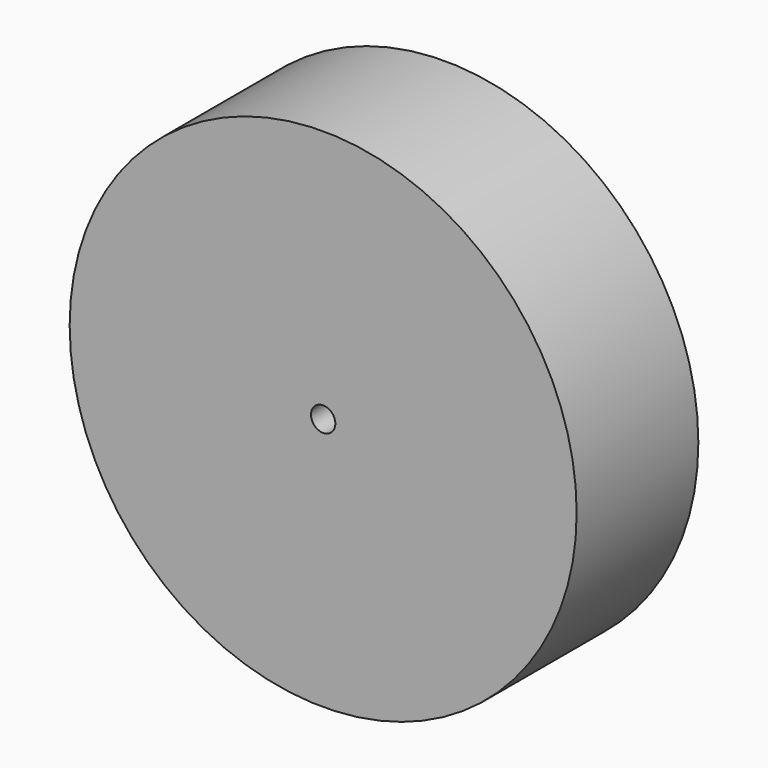
from build123d import *

# Parameters (mm, degrees)
CYLINDER005_R             = 1.2
CYLINDER005_DEPTH         = 32
CYLINDER005_ROLL_ANGLE    = 90
CYLINDER004_R             = 4
CYLINDER004_DEPTH         = 15
CYLINDER004_ROLL_ANGLE    = 90
CYLINDER003_R             = 25
CYLINDER003_DEPTH         = 15
CYLINDER003_ROLL_ANGLE    = 90
THICKNESS001_T            = -3
FUSION001_PLACEMENT_ANGLE = 180


with BuildPart() as wheelshaft:
    # Cylinder005 → Cylinder005 (new body)
    with BuildSketch(Plane.XY):
        Circle(CYLINDER005_R)
    extrude(amount=CYLINDER005_DEPTH)


with BuildPart() as wheelshaft_1:
    # Cylinder005 roll: moved
    add(wheelshaft.part.rotate(Axis((0, 0, 0), (1, 0, 0)), CYLINDER005_ROLL_ANGLE))


with BuildPart() as wheelshaft_2:
    # Cylinder005 placement: moved
    add(wheelshaft_1.part.moved(Location((0, 40, 0))))


with BuildPart() as shaft_holder_b:
    # Cylinder004 → Cylinder004 (new body)
    with BuildSketch(Plane.XY):
        Circle(CYLINDER004_R)
    extrude(amount=CYLINDER004_DEPTH)


with BuildPart() as shaft_holder_b_1:
    # Cylinder004 roll: moved
    add(shaft_holder_b.part.rotate(Axis((0, 0, 0), (1, 0, 0)), CYLINDER004_ROLL_ANGLE))


with BuildPart() as shaft_holder_b_2:
    # Cylinder004 placement: moved
    add(shaft_holder_b_1.part.moved(Location((0, -23, 0))))


with BuildPart() as wheel_shaft_hollow_b:
    # Cylinder003 → Cylinder003 (new body)
    with BuildSketch(Plane.XY):
        Circle(CYLINDER003_R)
    extrude(amount=CYLINDER003_DEPTH)


with BuildPart() as wheel_shaft_hollow_b_1:
    # Cylinder003 roll: moved
    add(wheel_shaft_hollow_b.part.rotate(Axis((0, 0, 0), (1, 0, 0)), CYLINDER003_ROLL_ANGLE))


with BuildPart() as wheel_shaft_hollow_b_2:
    # Cylinder003 placement: moved
    add(wheel_shaft_hollow_b_1.part.moved(Location((0, -23, 0))))

    # Thickness001
    thickness001_openings = [wheel_shaft_hollow_b_2.faces().sort_by_distance(p)[0] for p in [
        (0, -38, 0),
    ]]
    offset(amount=THICKNESS001_T, openings=thickness001_openings)

    # Fusion001: union shaft_holder_b
    add(shaft_holder_b_2.part)


with BuildPart() as wheel_shaft_hollow_b_3:
    # Fusion001 placement: moved
    add(wheel_shaft_hollow_b_2.part.rotate(Axis((0, 0, 0), (0, 0, 1)), FUSION001_PLACEMENT_ANGLE))

    # Cut001: cut wheelshaft
    add(wheelshaft_2.part, mode=Mode.SUBTRACT)


solid = wheel_shaft_hollow_b_3.part
